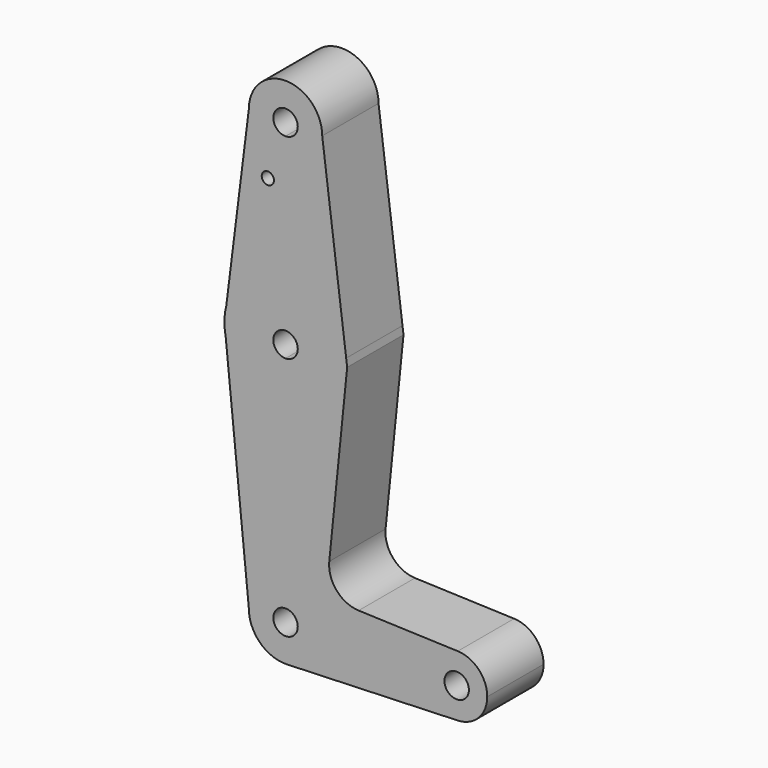
from build123d import *

# Parameters (mm, degrees)
F0_R     = 1.5875
F1_DEPTH = 18.288


with BuildPart() as f1:
    # F0 (on Front) → F1 (new body)
    with BuildSketch(Plane.XZ):
        with BuildLine():
            ThreePointArc((0, 78.8872162204), (6.7351920908, 81.6770241296), (9.525, 88.4122162204))
            ThreePointArc((9.525, 88.4122162204), (0, 97.9372162204), (-9.525, 88.4122162204))
            ThreePointArc((-9.525, 88.4122162204), (-6.7351920908, 81.6770241296), (0, 78.8872162204))
        make_face()
        with BuildLine():
            ThreePointArc((3.175, 88.4122162204), (2.2450640303, 86.1671521901), (0, 85.2372162204))
            ThreePointArc((0, 85.2372162204), (-2.2450640303, 90.6572802506), (3.175, 88.4122162204))
        make_face(mode=Mode.SUBTRACT)
        with BuildLine():
            Line((15.7474569397, 39.6205052763), (9.525, 88.4122162204))
            ThreePointArc((9.525, 88.4122162204), (6.7351920908, 81.6770241296), (0, 78.8872162204))
            Line((0, 78.8872162204), (0, 53.4872162204))
            ThreePointArc((0, 53.4872162204), (10.4912829586, 49.5264349057), (15.7474569397, 39.6205052763))
        make_face()
        with BuildLine():
            ThreePointArc((0, 78.8872162204), (-6.7351920908, 81.6770241296), (-9.525, 88.4122162204))
            Line((-9.525, 88.4122162204), (-15.3865384615, 41.5199085281))
            ThreePointArc((-15.3865384615, 41.5199085281), (-9.7463072395, 50.1431826712), (0, 53.4872162204))
            Line((0, 53.4872162204), (0, 78.8872162204))
        make_face()
        with Locations((-4.6039875597, 74.1374162204)):
            Circle(F0_R, mode=Mode.SUBTRACT)
        with BuildLine():
            Line((16.0035761028, 37.6122162204), (15.7474569397, 39.6205052763))
            ThreePointArc((15.7474569397, 39.6205052763), (15.8430821483, 38.6183837219), (15.875, 37.6122162204))
            ThreePointArc((15.875, 37.6122162204), (11.2253201513, 26.386896069), (0, 21.7372162204))
            Line((0, 21.7372162204), (0, -16.3627837796))
            ThreePointArc((0, -16.3627837796), (6.7351920908, -19.1525916888), (9.525, -25.8877837796))
            Line((9.525, -25.8877837796), (36.5125, -25.8877837796))
            ThreePointArc((36.5125, -25.8877837796), (38.9380895153, -20.1761509957), (44.7324052746, -17.9553091651))
            Line((44.7324052746, -17.9553091651), (18.9822637558, -17.0385743328))
            ThreePointArc((18.9822637558, -17.0385743328), (13.2731893708, -14.3185811381), (11.3553673773, -8.2924835523))
            Line((11.3553673773, -8.2924835523), (16.0035761028, 37.6122162204))
        make_face()
        with BuildLine():
            ThreePointArc((15.875, 37.6122162204), (15.8430821483, 38.6183837219), (15.7474569397, 39.6205052763))
            ThreePointArc((15.7474569397, 39.6205052763), (10.4912829586, 49.5264349057), (0, 53.4872162204))
            Line((0, 53.4872162204), (0, 40.7872162204))
            ThreePointArc((0, 40.7872162204), (2.2450640303, 39.8572802506), (3.175, 37.6122162204))
            ThreePointArc((3.175, 37.6122162204), (2.2450640303, 35.3671521901), (0, 34.4372162204))
            Line((0, 34.4372162204), (0, 21.7372162204))
            ThreePointArc((0, 21.7372162204), (11.2253201513, 26.386896069), (15.875, 37.6122162204))
        make_face()
        with BuildLine():
            Line((-15.875, 37.6122162204), (-15.3865384615, 41.5199085281))
            ThreePointArc((-15.3865384615, 41.5199085281), (-15.7524112928, 39.581267632), (-15.875, 37.6122162204))
        make_face()
        with BuildLine():
            ThreePointArc((0, 53.4872162204), (-9.7463072395, 50.1431826712), (-15.3865384615, 41.5199085281))
            Line((-15.3865384615, 41.5199085281), (-15.875, 37.6122162204))
            Line((-15.875, 37.6122162204), (-15.5606435644, 34.4686518639))
            ThreePointArc((-15.5606435644, 34.4686518639), (-10.0526499203, 25.3256440955), (0, 21.7372162204))
            Line((0, 21.7372162204), (0, 34.4372162204))
            ThreePointArc((0, 34.4372162204), (-3.175, 37.6122162204), (0, 40.7872162204))
            Line((0, 40.7872162204), (0, 53.4872162204))
        make_face()
        with BuildLine():
            Line((-15.5606435644, 34.4686518639), (-15.875, 37.6122162204))
            ThreePointArc((-15.875, 37.6122162204), (-15.7962153946, 36.0325946809), (-15.5606435644, 34.4686518639))
        make_face()
        with BuildLine():
            Line((0, -16.3627837796), (0, 21.7372162204))
            ThreePointArc((0, 21.7372162204), (-10.0526499203, 25.3256440955), (-15.5606435644, 34.4686518639))
            Line((-15.5606435644, 34.4686518639), (-9.525, -25.8877837796))
            ThreePointArc((-9.525, -25.8877837796), (-6.7351920908, -19.1525916888), (0, -16.3627837796))
        make_face()
        with BuildLine():
            Line((0, -22.7127837796), (0, -16.3627837796))
            ThreePointArc((0, -16.3627837796), (-6.7351920908, -19.1525916888), (-9.525, -25.8877837796))
            ThreePointArc((-9.525, -25.8877837796), (-6.6134341631, -32.7425714182), (0.3412705658, -35.4066681366))
            ThreePointArc((0.3412705658, -35.4066681366), (6.8547876386, -32.5012179428), (9.525, -25.8877837796))
            Line((9.525, -25.8877837796), (3.175, -25.8877837796))
            ThreePointArc((3.175, -25.8877837796), (-2.2450640303, -28.1328478099), (0, -22.7127837796))
        make_face()
        with BuildLine():
            Line((36.5125, -25.8877837796), (9.525, -25.8877837796))
            ThreePointArc((9.525, -25.8877837796), (6.8547876386, -32.5012179428), (0.3412705658, -35.4066681366))
            Line((0.3412705658, -35.4066681366), (44.45, -33.8252837796))
            ThreePointArc((44.45, -33.8252837796), (38.8373399243, -31.5004438553), (36.5125, -25.8877837796))
        make_face()
        with BuildLine():
            ThreePointArc((52.3875, -25.8877837796), (50.1616327839, -20.3758732949), (44.7324052746, -17.9553091651))
            ThreePointArc((44.7324052746, -17.9553091651), (38.9380895153, -20.1761509957), (36.5125, -25.8877837796))
            ThreePointArc((36.5125, -25.8877837796), (38.8373399243, -31.5004438553), (44.45, -33.8252837796))
            ThreePointArc((44.45, -33.8252837796), (50.0626600757, -31.5004438553), (52.3875, -25.8877837796))
        make_face()
        with BuildLine():
            ThreePointArc((47.625, -25.8877837796), (44.45, -29.0627837796), (41.275, -25.8877837796))
            ThreePointArc((41.275, -25.8877837796), (44.45, -22.7127837796), (47.625, -25.8877837796))
        make_face(mode=Mode.SUBTRACT)
        with BuildLine():
            ThreePointArc((9.525, -25.8877837796), (6.7351920908, -19.1525916888), (0, -16.3627837796))
            Line((0, -16.3627837796), (0, -22.7127837796))
            ThreePointArc((0, -22.7127837796), (2.2450640303, -23.6427197494), (3.175, -25.8877837796))
            Line((3.175, -25.8877837796), (9.525, -25.8877837796))
        make_face()
    extrude(amount=F1_DEPTH)


solid = f1.part
